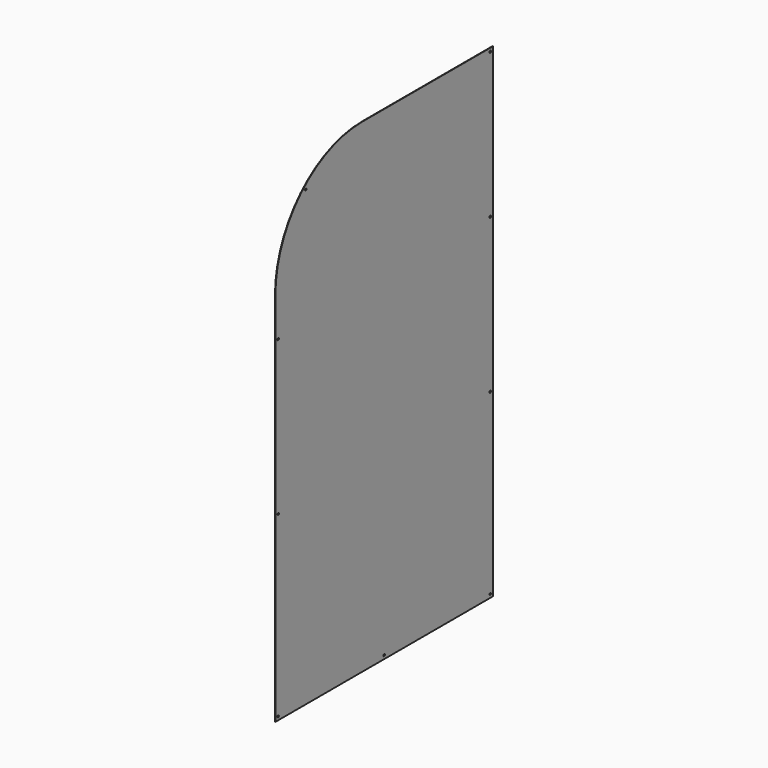
from build123d import *

# Parameters (mm, degrees)
F0_R     = 3.5
F1_DEPTH = 0.75


with BuildPart() as f1:
    # F0 (on Right) → F1 (new body, symmetric)
    with BuildSketch(Plane.YZ):
        with BuildLine():
            Line((500, -890), (500, 890))
            Line((500, 890), (-100, 890))
            ThreePointArc((-100, 890), (-382.842712, 772.842712), (-500, 490))
            Line((-500, 490), (-500, -890))
            Line((-500, -890), (500, -890))
        make_face()
        with Locations((-487.3, -877.3)):
            Circle(F0_R, mode=Mode.SUBTRACT)
        with Locations((-487.3, -222.647071)):
            Circle(F0_R, mode=Mode.SUBTRACT)
        with Locations((0, -877.3)):
            Circle(F0_R, mode=Mode.SUBTRACT)
        with Locations((487.3, -877.3)):
            Circle(F0_R, mode=Mode.SUBTRACT)
        with Locations((487.3, -222.647071)):
            Circle(F0_R, mode=Mode.SUBTRACT)
        with Locations((-487.3, 343.447447)):
            Circle(F0_R, mode=Mode.SUBTRACT)
        with Locations((-360.641495, 776.47391)):
            Circle(F0_R, mode=Mode.SUBTRACT)
        with Locations((487.3, 343.447447)):
            Circle(F0_R, mode=Mode.SUBTRACT)
        with Locations((487.3, 877.3)):
            Circle(F0_R, mode=Mode.SUBTRACT)
    extrude(amount=F1_DEPTH, both=True)


solid = f1.part
